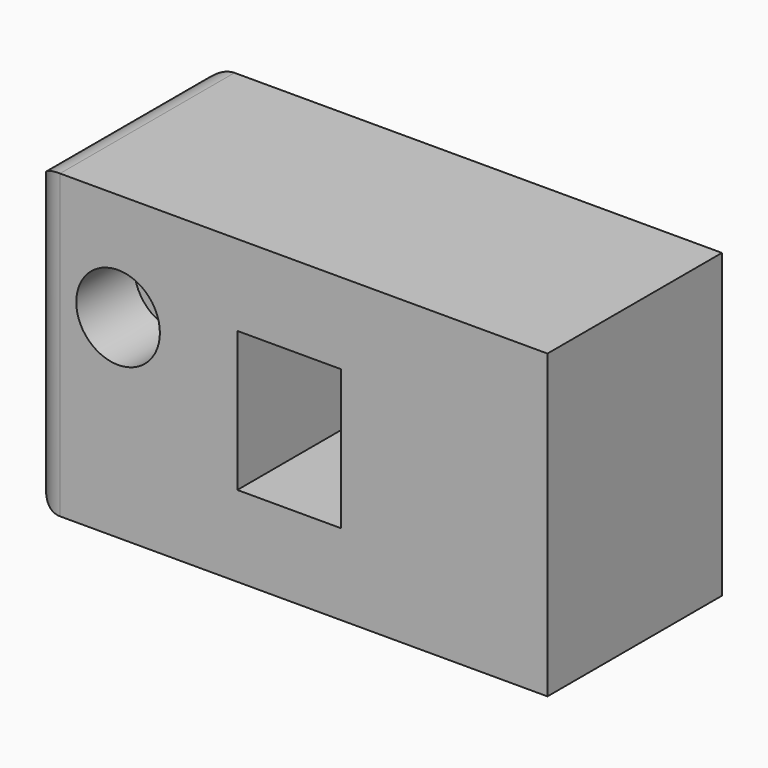
from build123d import *

# Parameters (mm, degrees)
F0_W     = 90.249106
F0_H     = 52.73592
F0_W_2   = 18.122312
F0_H_2   = 24.46512
F1_DEPTH = 12.7
F2_W     = 90.249106
F2_H     = 52.73592
F2_R     = 7.305338
F2_W_2   = 18.122312
F2_H_2   = 24.46512
F3_DEPTH = 12.7
F4_R     = 5.08


with BuildPart() as f1:
    # F0 (on Front) → F1 (new body, symmetric)
    with BuildSketch(Plane.XZ):
        Rectangle(F0_W, F0_H)
        Rectangle(F0_W_2, F0_H_2, mode=Mode.SUBTRACT)
    extrude(amount=F1_DEPTH, both=True)

    # F2 (on face) → F3 (join, symmetric)
    with BuildSketch(Plane.XZ.offset(12.7)):
        Rectangle(F2_W, F2_H)
        with Locations((-29.901814, 7.520759)):
            Circle(F2_R, mode=Mode.SUBTRACT)
        Rectangle(F2_W_2, F2_H_2, mode=Mode.SUBTRACT)
    extrude(amount=F3_DEPTH, both=True)

    # F4
    f4_edges = [f1.edges().sort_by_distance(p)[0] for p in [
        (-45.124553, -6.35, 26.36796),
        (-45.124553, 12.7, 0),
        (-45.124553, -6.35, -26.36796),
        (-45.124553, -25.4, 0),
    ]]
    fillet(f4_edges, radius=F4_R)


solid = f1.part
